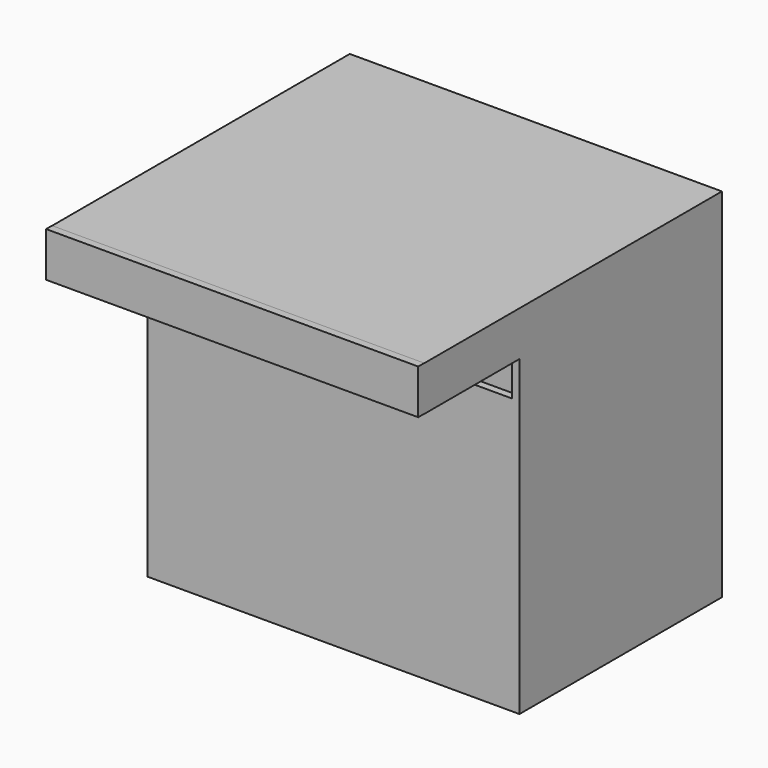
from build123d import *

# Parameters (mm, degrees)
F0_W      = 317.5
F0_H      = 215.9
F1_DEPTH  = 6.35
F2_W      = 317.5
F2_H      = 292.1
F3_DEPTH  = 6.35
F4_W      = 215.9
F4_H      = 292.1
F5_DEPTH  = 6.35
F7_W      = 215.9
F7_H      = 292.1
F8_DEPTH  = 6.35
F10_W     = 317.5
F10_H     = 317.5
F11_DEPTH = 6.35
F14_W     = 317.5
F14_H     = 228.6
F15_DEPTH = 6.35
F16_W     = 101.6
F16_H     = 38.1
F17_DEPTH = 6.35
F18_W     = 101.6
F18_H     = 38.1
F19_DEPTH = 6.35
F20_W     = 317.5
F20_H     = 38.1
F21_DEPTH = 6.35


with BuildPart() as f1:
    # F0 (on Top) → F1 (new body)
    with BuildSketch(Plane.XY):
        with Locations((158.75, -107.95)):
            Rectangle(F0_W, F0_H)
    extrude(amount=-F1_DEPTH)

    # F2 (on Front) → F3 (join)
    with BuildSketch(Plane.XZ):
        with Locations((158.75, 146.05)):
            Rectangle(F2_W, F2_H)
    extrude(amount=F3_DEPTH)

    # F4 (on Right) → F5 (join)
    with BuildSketch(Plane.YZ):
        with Locations((-107.95, 146.05)):
            Rectangle(F4_W, F4_H)
    extrude(amount=F5_DEPTH)

    # F7 (on offset) → F8 (join)
    with BuildSketch(Plane.YZ.offset(317.5)):
        with Locations((-107.95, 146.05)):
            Rectangle(F7_W, F7_H)
    extrude(amount=-F8_DEPTH)

    # F10 (on offset) → F11 (join)
    with BuildSketch(Plane.XY.offset(292.1)):
        with Locations((158.75, -158.75)):
            Rectangle(F10_W, F10_H)
    extrude(amount=F11_DEPTH)

    # F14 (on offset) → F15 (join)
    with BuildSketch(Plane.XZ.offset(215.9)):
        with Locations((158.75, 114.3)):
            Rectangle(F14_W, F14_H)
    extrude(amount=-F15_DEPTH)

    # F16 (on face) → F17 (join)
    with BuildSketch(Plane.YZ.offset(317.5)):
        with Locations((-266.7, 279.4)):
            Rectangle(F16_W, F16_H)
    extrude(amount=-F17_DEPTH)

    # F18 (on face) → F19 (join)
    with BuildSketch(Plane(origin=(0, 0, 0), x_dir=(0, -1, 0), z_dir=(-1, 0, 0))):
        with Locations((266.7, 279.4)):
            Rectangle(F18_W, F18_H)
    extrude(amount=-F19_DEPTH)

    # F20 (on offset) → F21 (join)
    with BuildSketch(Plane.XZ.offset(317.5)):
        with Locations((158.75, 279.5041836309)):
            Rectangle(F20_W, F20_H)
    extrude(amount=F21_DEPTH)


solid = f1.part
